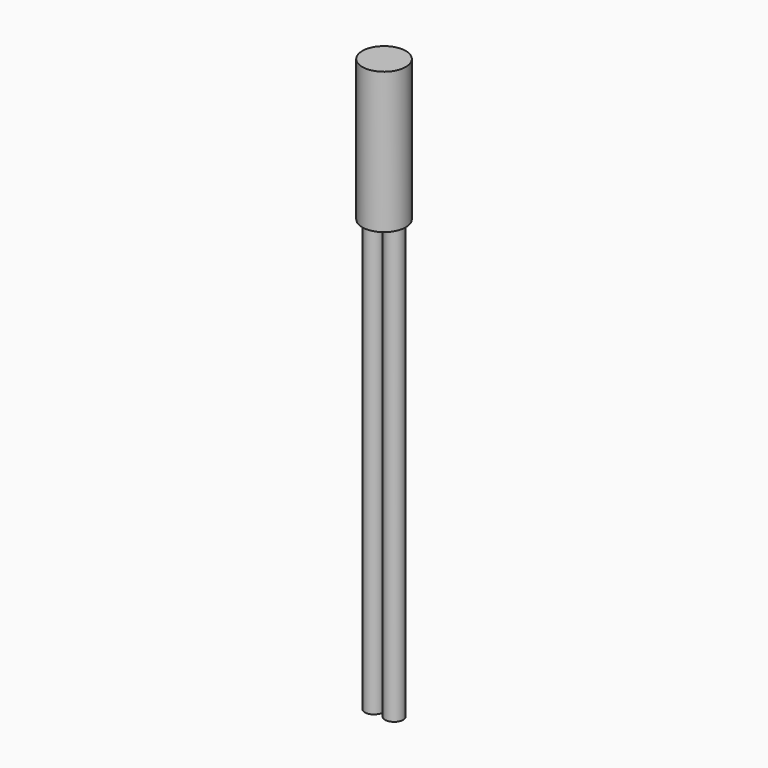
from build123d import *

# Parameters (mm, degrees)
SKETCH_R     = 3
PAD_DEPTH    = 19.5
SKETCH001_R  = 1.25
PAD001_DEPTH = 60


with BuildPart() as part:
    # Sketch → Pad (new body)
    with BuildSketch(Plane.XY):
        Circle(SKETCH_R)
    extrude(amount=PAD_DEPTH)

    # Sketch001 (on Face2 of Pad) → Pad001 (join)
    with BuildSketch(Plane(origin=(0, 0, 0), x_dir=(1, 0, 0), z_dir=(0, 0, -1))):
        with Locations((-1.392457, 0)):
            Circle(SKETCH001_R)
        with Locations((1.392457, 0)):
            Circle(SKETCH001_R)
    extrude(amount=PAD001_DEPTH)


solid = part.part
